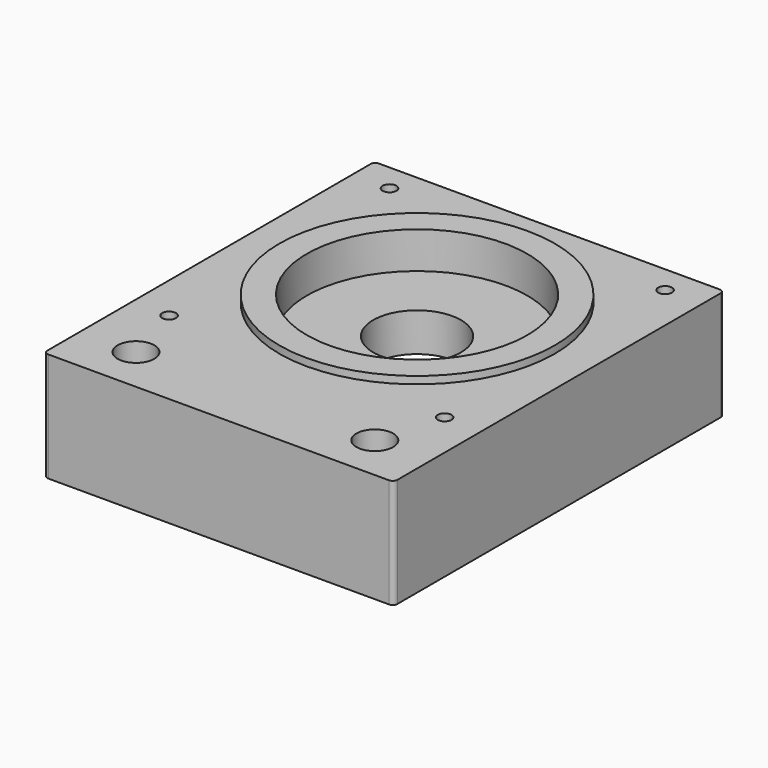
from build123d import *

# Parameters (mm, degrees)
F0_W      = 76.2
F0_H      = 90
F1_DEPTH  = 25.4
F2_R      = 9.55
F2_R_2    = 4
F3_DEPTH  = 25.4
F5_R      = 1.5
F6_DEPTH  = 15
F7_W      = 95.184714
F7_H      = 99.811753
F7_R      = 30
F8_DEPTH  = 1.6
F9_R      = 24
F10_DEPTH = 8
F11_R     = 32.25
F12_DEPTH = 9
F13_R     = 1


with BuildPart() as f1:
    # F0 (on Top) → F1 (new body)
    with BuildSketch(Plane.XY):
        with Locations((38.1, 45)):
            Rectangle(F0_W, F0_H)
    extrude(amount=F1_DEPTH)

    # F2 (on face) → F3 (cut, through all)
    with BuildSketch(Plane.XY.offset(25.4)):
        with Locations((38.1, 54)):
            Circle(F2_R)
        with Locations((12.1, 10)):
            Circle(F2_R_2)
        with Locations((64.1, 10)):
            Circle(F2_R_2)
    extrude(amount=-F3_DEPTH, mode=Mode.SUBTRACT)

    # F5 (on face) → F6 (cut)
    with BuildSketch(Plane.XY.offset(25.4)):
        with Locations((8.1, 84)):
            Circle(F5_R)
        with Locations((68.1, 84)):
            Circle(F5_R)
        with Locations((68.1, 24)):
            Circle(F5_R)
        with Locations((8.1, 24)):
            Circle(F5_R)
    extrude(amount=-F6_DEPTH, mode=Mode.SUBTRACT)

    # F7 (on face) → F8 (cut)
    with BuildSketch(Plane.XY.offset(25.4)):
        with Locations((40.338032, 44.112226)):
            Rectangle(F7_W, F7_H)
        with Locations((38.1, 54)):
            Circle(F7_R, mode=Mode.SUBTRACT)
    extrude(amount=-F8_DEPTH, mode=Mode.SUBTRACT)

    # F9 (on face) → F10 (cut)
    with BuildSketch(Plane.XY.offset(25.4)):
        with Locations((38.1, 54)):
            Circle(F9_R)
    extrude(amount=-F10_DEPTH, mode=Mode.SUBTRACT)

    # F11 (on face) → F12 (cut)
    with BuildSketch(Plane(origin=(0, 0, 0), x_dir=(1, 0, 0), z_dir=(0, 0, -1))):
        with Locations((38.1, -54)):
            Circle(F11_R)
    extrude(amount=-F12_DEPTH, mode=Mode.SUBTRACT)

    # F13
    f13_edges = [f1.edges().sort_by_distance(p)[0] for p in [
        (76.2, 0, 11.9),
        (0, 0, 11.9),
        (76.2, 90, 11.9),
        (0, 90, 11.9),
    ]]
    fillet(f13_edges, radius=F13_R)


solid = f1.part
